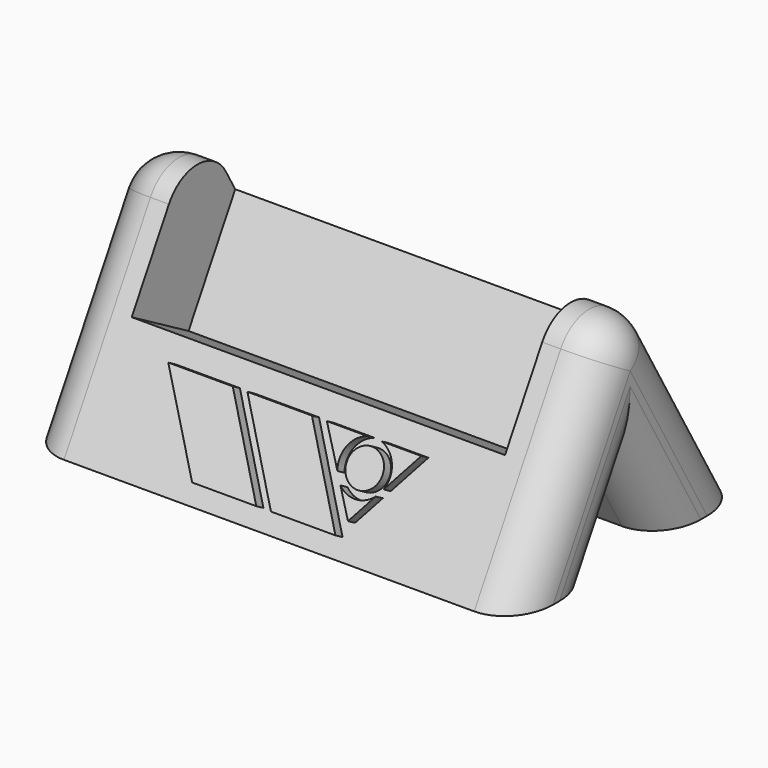
from build123d import *

# Parameters (mm, degrees)
F1_DEPTH = 60
F2_W     = 91
F2_H     = 40
F3_DEPTH = 20
F4_R     = 4.3757639441
F5_DEPTH = 2.5
F7_DEPTH = 120.001
F8_R     = 10


with BuildPart() as f1:
    # F0 (on Right) → F1 (new body, symmetric)
    with BuildSketch(Plane.YZ):
        Polygon((35, 0), (0, 60.6217782649), (-35, 0), align=None)
    extrude(amount=F1_DEPTH, both=True)

    # F2 (on face) → F3 (cut)
    with BuildSketch(Plane(origin=(0, -26.25, 15.1554445662), x_dir=(1, 0, 0), z_dir=(0, -0.8660254038, 0.5))):
        with Locations((0, 32.5)):
            Rectangle(F2_W, F2_H)
    extrude(amount=-F3_DEPTH, mode=Mode.SUBTRACT)

    # F4 (on face) → F5 (join)
    with BuildSketch(Plane(origin=(0, -26.25, 15.1554445662), x_dir=(1, 0, 0), z_dir=(0, -0.8660254038, 0.5))):
        Polygon((-16.9133506715, 6.9602951407), (-32.6403528452, 6.9602951407), (-18.8582409173, -12.9176480696), (-3.2289559022, -12.9176480696), align=None)
        Polygon((2.3815555032, 6.9602951407), (-13.3497389033, 6.9602951407), (0.334655866, -12.9176480696), (16.0643365234, -12.9176480696), align=None)
        with BuildLine():
            Line((15.8933419219, 6.9602951407), (6.0318070464, 6.9602951407))
            Line((6.0318070464, 6.9602951407), (11.8799349226, -1.2600759071))
            ThreePointArc((11.8799349226, -1.2600759071), (12.0659931402, 3.7389977797), (15.8933419219, 6.9602951407))
        make_face()
        with Locations((17.6157766381, 1.0294436968)):
            Circle(F4_R)
        with BuildLine():
            Line((23.2472105613, -1.5060507656), (29.0346425027, 6.9602951407))
            Line((29.0346425027, 6.9602951407), (19.3382113542, 6.9602951407))
            ThreePointArc((19.3382113542, 6.9602951407), (23.2228792092, 3.6183007725), (23.2472105613, -1.5060507656))
        make_face()
        with BuildLine():
            Line((13.5719669058, -3.6384662263), (17.7627429366, -9.5291947946))
            Line((17.7627429366, -9.5291947946), (22.0228294821, -3.29717917))
            ThreePointArc((22.0228294821, -3.29717917), (17.8649865963, -5.1414293855), (13.5719669058, -3.6384662263))
        make_face()
    extrude(amount=F5_DEPTH)

    # F6 (on face) → F7 (cut, through all)
    with BuildSketch(Plane(origin=(-60, 0, 0), x_dir=(0, -1, 0), z_dir=(-1, 0, 0))):
        Polygon((10, 0), (0, 17.3205080757), (-10, 0), align=None)
    extrude(amount=-F7_DEPTH, mode=Mode.SUBTRACT)

    # F8
    f8_edges = [f1.edges().sort_by_distance(p)[0] for p in [
        (52.75, 0, 60.621778),
        (-52.75, 0, 60.621778),
        (-60, -17.5, 30.310889),
        (60, 17.5, 30.310889),
        (60, -17.5, 30.310889),
        (-60, 17.5, 30.310889),
        (-60, -5, 8.660254),
        (-60, 5, 8.660254),
        (60, -5, 8.660254),
        (60, 5, 8.660254),
    ]]
    fillet(f8_edges, radius=F8_R)


solid = f1.part
